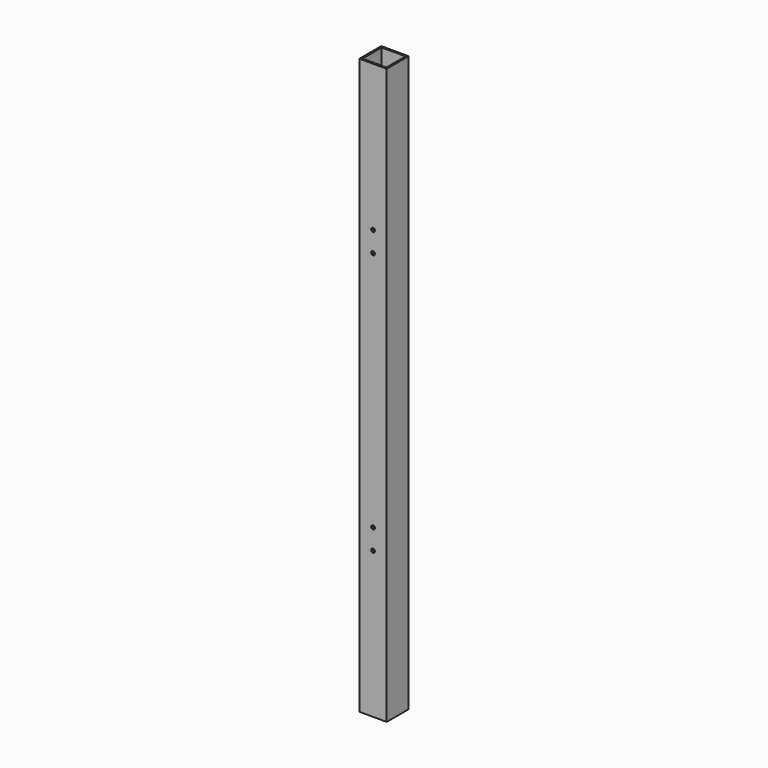
from build123d import *

# Parameters (mm, degrees)
F0_W     = 25.4
F0_H     = 25.4
F0_W_2   = 22.225
F0_H_2   = 22.225
F1_DEPTH = 533.4
F2_R     = 1.7272
F3_DEPTH = 25.4


with BuildPart() as f1:
    # F0 (on Top) → F1 (new body)
    with BuildSketch(Plane.XY):
        Rectangle(F0_W, F0_H)
        Rectangle(F0_W_2, F0_H_2, mode=Mode.SUBTRACT)
    extrude(amount=F1_DEPTH)

    # F2 (on face) → F3 (cut, through all)
    with BuildSketch(Plane.XZ.offset(12.7)):
        with Locations((0, 135.68011)):
            Circle(F2_R)
        with Locations((0, 154.73011)):
            Circle(F2_R)
        with Locations((0, 397.71989)):
            Circle(F2_R)
        with Locations((0, 378.66989)):
            Circle(F2_R)
    extrude(amount=-F3_DEPTH, mode=Mode.SUBTRACT)


solid = f1.part
